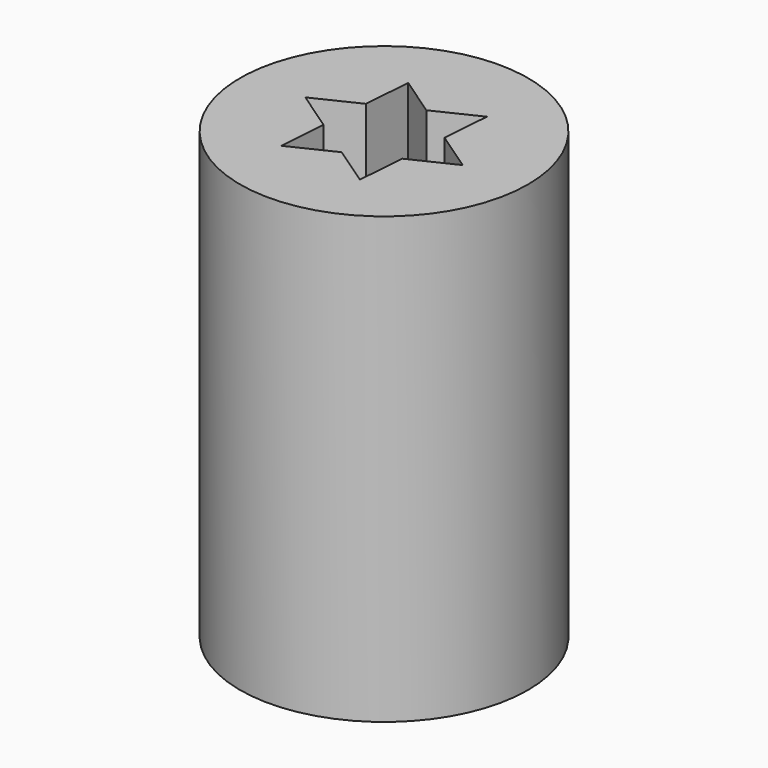
from build123d import *

# Parameters (mm, degrees)
F0_R     = 8.575
F1_DEPTH = 26.5
F3_DEPTH = 26.5


with BuildPart() as f1:
    # F0 (on Top) → F1 (new body)
    with BuildSketch(Plane.XY):
        Circle(F0_R)
    extrude(amount=F1_DEPTH)

    # F2 (on face) → F3 (cut)
    with BuildSketch(Plane(origin=(0, 0, 0), x_dir=(1, 0, 0), z_dir=(0, 0, -1))):
        Polygon((4.9857674621, 0.3769917955), (2.3840555737, 1.6277629909), (2.6017118884, -1.2507711954), align=None)
        Polygon((2.819368203, -4.1293053818), (2.6017118884, -1.2507711954), (0.2176563146, -2.8785341864), align=None)
        Polygon((0.2176563146, -2.8785341864), (-2.3840555737, -1.6277629909), (-2.1663992591, -4.5062971773), align=None)
        Polygon((-2.3840555737, -1.6277629909), (-2.6017118884, 1.2507711954), (-4.9857674621, -0.3769917955), align=None)
        Polygon((2.3840555737, 1.6277629909), (-0.2176563146, 2.8785341864), (-2.6017118884, 1.2507711954), (-2.3840555737, -1.6277629909), (0.2176563146, -2.8785341864), (2.6017118884, -1.2507711954), align=None)
        Polygon((2.1663992591, 4.5062971773), (-0.2176563146, 2.8785341864), (2.3840555737, 1.6277629909), align=None)
        Polygon((-0.2176563146, 2.8785341864), (-2.819368203, 4.1293053818), (-2.6017118884, 1.2507711954), align=None)
    extrude(amount=-F3_DEPTH, mode=Mode.SUBTRACT)


solid = f1.part
